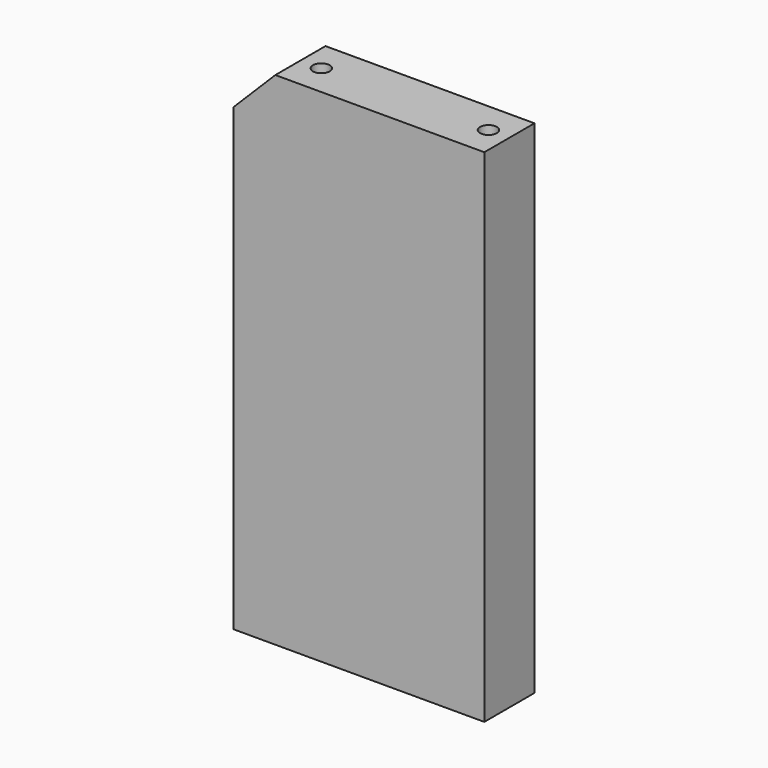
from build123d import *

# Parameters (mm, degrees)
F0_W     = 76.2
F0_H     = 152.4
F1_DEPTH = 19.05
F3_D     = 5.1054
F3_DEPTH = 25.4
F3_TIP   = 1.5338169022
F4_D     = 5.1054
F4_DEPTH = 25.4
F4_TIP   = 1.5338169022
F6_D     = 5.1054
F6_DEPTH = 25.4
F6_TIP   = 1.5338169022
F7_SIZE  = 12.7


with BuildPart() as f1:
    # F0 (on Front) → F1 (new body)
    with BuildSketch(Plane.XZ):
        with Locations((-38.1, 76.2)):
            Rectangle(F0_W, F0_H)
    extrude(amount=F1_DEPTH)

    # F3
    with Locations(Plane(origin=(0, 0, 0), x_dir=(1, 0, 0), z_dir=(0, 0, -1))):
        with Locations((-50.8, 9.525)):
            Hole(F3_D / 2, depth=F3_DEPTH)
            with Locations((0, 0, -(F3_DEPTH + F3_TIP / 2))):  # 118° drill point
                Cone(0, F3_D / 2, F3_TIP, mode=Mode.SUBTRACT)

    # F4
    with Locations(Plane(origin=(0, 0, 0), x_dir=(1, 0, 0), z_dir=(0, 0, -1))):
        with Locations((-25.4, 9.525)):
            Hole(F4_D / 2, depth=F4_DEPTH)
            with Locations((0, 0, -(F4_DEPTH + F4_TIP / 2))):  # 118° drill point
                Cone(0, F4_D / 2, F4_TIP, mode=Mode.SUBTRACT)

    # F6
    with Locations(Plane.XY.offset(152.4)):
        with Locations((-57.15, -9.525), (-6.35, -9.525)):
            Hole(F6_D / 2, depth=F6_DEPTH)
            with Locations((0, 0, -(F6_DEPTH + F6_TIP / 2))):  # 118° drill point
                Cone(0, F6_D / 2, F6_TIP, mode=Mode.SUBTRACT)

    # F7
    f7_edges = [f1.edges().sort_by_distance(p)[0] for p in [
        (-76.2, -9.525, 152.4),
    ]]
    chamfer(f7_edges, length=F7_SIZE)


solid = f1.part
